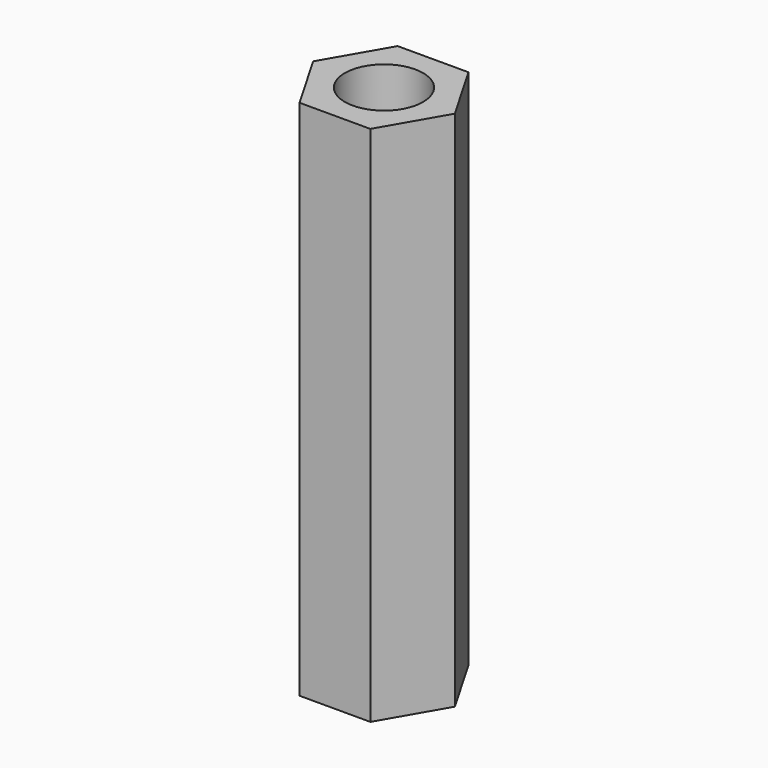
from build123d import *

# Parameters (mm, degrees)
SKETCH_R  = 1.5
PAD_DEPTH = 20


with BuildPart() as part:
    # Sketch → Pad (new body)
    with BuildSketch(Plane.XY):
        Polygon((1.356773, -2.35), (2.713546, 0), (1.356773, 2.35), (-1.356773, 2.35), (-2.713546, 0), (-1.356773, -2.35), align=None)
        Circle(SKETCH_R, mode=Mode.SUBTRACT)
    extrude(amount=PAD_DEPTH)


solid = part.part
